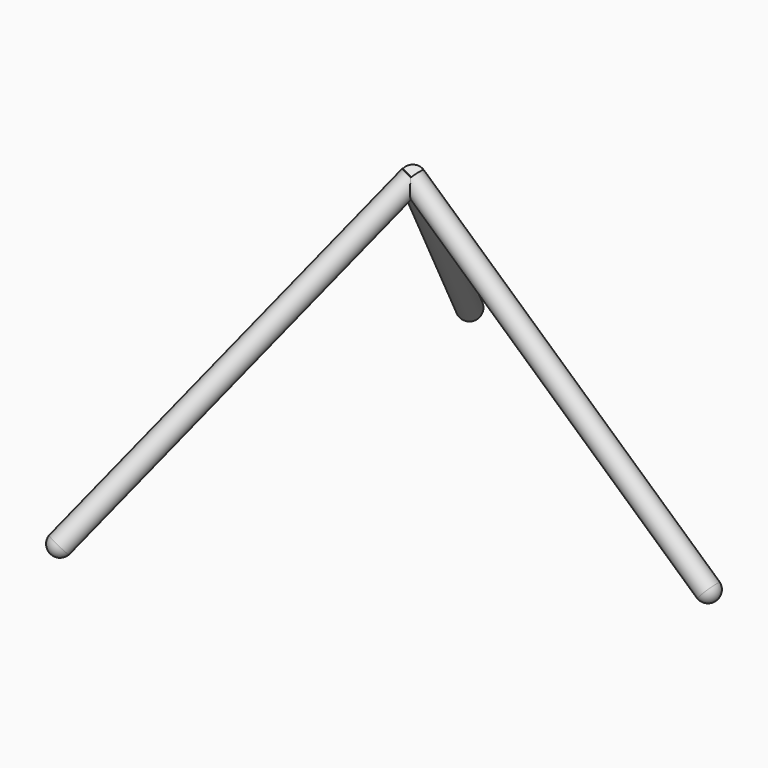
from build123d import *

# Parameters (mm, degrees)
F2_ANGLE = 120
F3_ANGLE = 240


with BuildPart() as f1:
    # F0 (on Front) → F1 (revolve)
    with BuildSketch(Plane.XZ):
        with BuildLine():
            Line((5.354088676, 5.9442185735), (0, 0))
            Line((0, 0), (216.9314557504, -195.3949432277))
            Line((216.9314557504, -195.3949432277), (222.9081965062, -200.77832535))
            ThreePointArc((222.9081965062, -200.77832535), (224.9752255841, -195.3949432277), (222.9081965062, -190.0115611053))
            Line((222.9081965062, -190.0115611053), (5.354088676, 5.9442185735))
        make_face()
    revolve(axis=Axis((108.4657278752, 0, -97.6974716138), (0.7430273217, 0, -0.6692610845)))


with BuildPart() as f2_1:
    # F2: copy of F1
    add(f1.part.rotate(Axis((0, 0, 3.8354452699), (0, 0, -1)), F2_ANGLE))


with BuildPart() as f3_1:
    # F3: copy of F1
    add(f1.part.rotate(Axis((0, 0, 3.8354452699), (0, 0, -1)), F3_ANGLE))


solid = Compound([f1.part, f2_1.part, f3_1.part])
